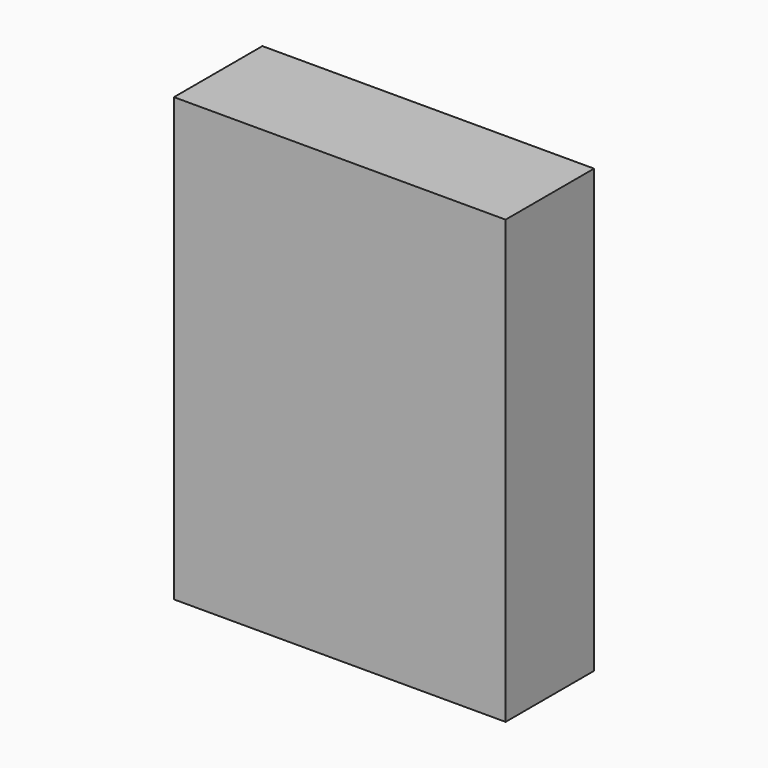
from build123d import *

# Parameters (mm, degrees)
F0_W      = 76.2
F0_H      = 101.6
F1_DEPTH  = 50.8
F2_R      = 28.338131
F2_R_2    = 1.769468
F1_FACE_W = 76.2
F1_FACE_H = 101.6
F3_DEPTH  = 25.4


with BuildPart() as f1:
    # F0 (on Front) → F1 (new body)
    with BuildSketch(Plane.XZ):
        with Locations((35.9378, 45.833794)):
            Rectangle(F0_W, F0_H)
    extrude(amount=-F1_DEPTH)

    # F2 (on face) + F1_face (on face) → F3 (cut)
    with BuildSketch(Plane(origin=(0, 50.8, 0), x_dir=(-1, 0, 0), z_dir=(0, 1, 0))):
        with Locations((-30.389089, 45.181002)):
            Circle(F2_R)
        with BuildLine():
            ThreePointArc((-37.398237, 46.677038), (-20.360699, 48.915227), (-11.129135, 34.421593))
            ThreePointArc((-11.129135, 34.421593), (-30.067377, 18.701711), (-42.031324, 40.210678))
            ThreePointArc((-42.031324, 40.210678), (-46.180554, 48.076524), (-37.398237, 46.677038))
        make_face(mode=Mode.SUBTRACT)
        with BuildLine():
            ThreePointArc((-42.031324, 40.210678), (-30.067377, 18.701711), (-11.129135, 34.421593))
            ThreePointArc((-11.129135, 34.421593), (-20.360699, 48.915227), (-37.398237, 46.677038))
            ThreePointArc((-37.398237, 46.677038), (-37.225748, 45.937842), (-37.167802, 45.181002))
            ThreePointArc((-37.167802, 45.181002), (-38.58595, 41.704007), (-42.031324, 40.210678))
        make_face()
        with Locations((-27.122481, 34.421593)):
            Circle(F2_R_2, mode=Mode.SUBTRACT)
    with BuildSketch(Plane(origin=(35.9378, 50.8, 45.833794), x_dir=(1, 0, 0), z_dir=(0, 1, 0))):
        Rectangle(F1_FACE_W, F1_FACE_H)
        Rectangle(F1_FACE_W, F1_FACE_H)
    extrude(amount=-F3_DEPTH, mode=Mode.SUBTRACT)


solid = f1.part
